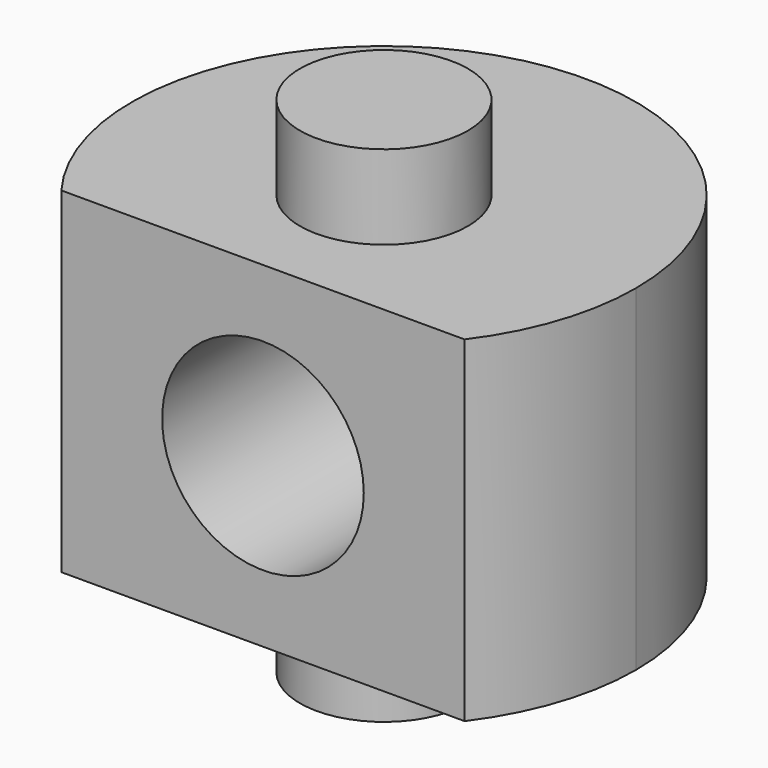
from build123d import *

# Parameters (mm, degrees)
F0_R     = 3.175
F1_DEPTH = 3.175
F2_R     = 3.175
F3_DEPTH = 12.7
F4_R     = 3.175
F5_DEPTH = 3.175
F6_R     = 3.81
F7_DEPTH = 12.7


with BuildPart() as f1:
    # F0 (on Top) → F1 (new body)
    with BuildSketch(Plane.XY):
        Circle(F0_R)
    extrude(amount=F1_DEPTH)

    # F2 (on face) → F3 (join)
    with BuildSketch(Plane.XY.offset(3.175)):
        with BuildLine():
            ThreePointArc((7.62, -5.715), (9.0362084139, -3.0120694713), (9.525, 0))
            ThreePointArc((9.525, 0), (-3.0120694713, 9.0362084139), (-7.62, -5.715))
            Line((-7.62, -5.715), (7.62, -5.715))
        make_face()
        Circle(F2_R, mode=Mode.SUBTRACT)
        Circle(F2_R)
    extrude(amount=F3_DEPTH)

    # F4 (on face) → F5 (join)
    with BuildSketch(Plane.XY.offset(15.875)):
        Circle(F4_R)
    extrude(amount=F5_DEPTH)

    # F6 (on face) → F7 (cut)
    with BuildSketch(Plane.XZ.offset(5.715)):
        with Locations((0, 9.525)):
            Circle(F6_R)
    extrude(amount=-F7_DEPTH, mode=Mode.SUBTRACT)


solid = f1.part
